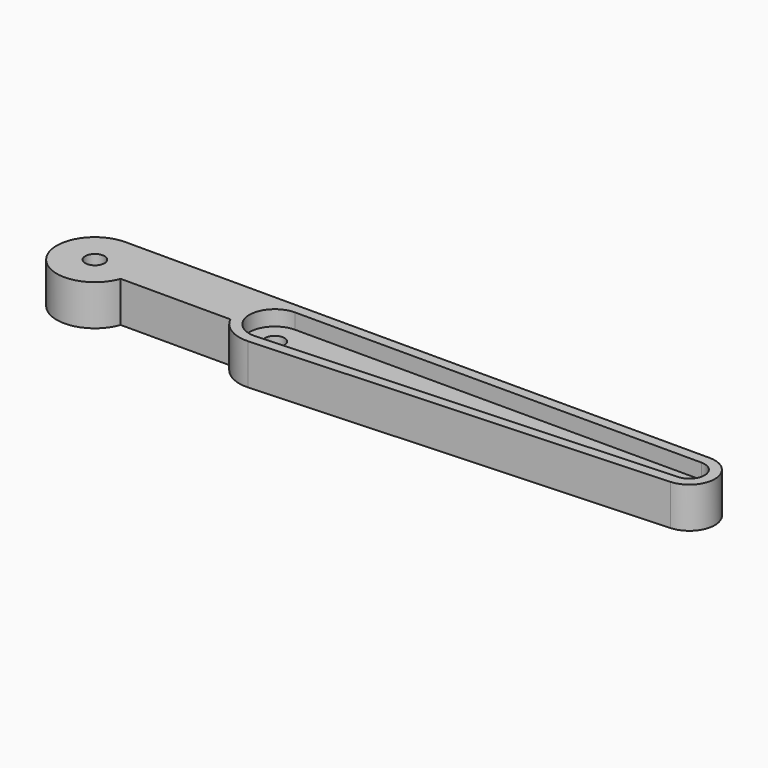
from build123d import *

# Parameters (mm, degrees)
F1_DEPTH = 8
F2_R     = 1.9
F3_DEPTH = 8.001
F5_DEPTH = 3
F6_ANGLE = 90


with BuildPart() as f1:
    # F0 (on Top) → F1 (new body)
    with BuildSketch(Plane.XY):
        with BuildLine():
            ThreePointArc((-0.125, 4.9984372558), (-3.6656130115, 3.4004825025), (-4.99375, -0.2499218628))
            ThreePointArc((-4.99375, -0.2499218628), (0.125, -4.9984372558), (5, 0))
            ThreePointArc((5, 0), (3.4910600109, 3.5794552658), (-0.125, 4.9984372558))
        make_face()
        with BuildLine():
            Line((-8.99125, 79.6251054846), (-4.99375, -0.2499218628))
            ThreePointArc((-4.99375, -0.2499218628), (-3.6656130115, 3.4004825025), (-0.125, 4.9984372558))
            Line((-0.125, 4.9984372558), (-1.825, 72.9771839344))
            ThreePointArc((-1.825, 72.9771839344), (-6.7606755035, 74.8431378764), (-8.99125, 79.6251054846))
        make_face()
        with BuildLine():
            ThreePointArc((-0.125, 4.9984372558), (3.4910600109, 3.5794552658), (5, 0))
            Line((5, 0), (5, 79.9749960925))
            ThreePointArc((5, 79.9749960925), (3.0112373721, 75.0875120772), (-1.825, 72.9771839344))
            Line((-1.825, 72.9771839344), (-0.125, 4.9984372558))
        make_face()
        with BuildLine():
            ThreePointArc((-5, 86.2995514129), (-8.0077721539, 83.567582034), (-8.99125, 79.6251054846))
            ThreePointArc((-8.99125, 79.6251054846), (-6.7606755035, 74.8431378764), (-1.825, 72.9771839344))
            Line((-1.825, 72.9771839344), (-2, 79.9749960925))
            Line((-2, 79.9749960925), (-5, 79.9749960925))
            Line((-5, 79.9749960925), (-5, 86.2995514129))
        make_face()
        with BuildLine():
            Line((-2, 79.9749960925), (5, 79.9749960925))
            ThreePointArc((5, 79.9749960925), (1.7416573868, 85.8910758756), (-5, 86.2995514129))
            Line((-5, 86.2995514129), (-5, 79.9749960925))
            Line((-5, 79.9749960925), (-2, 79.9749960925))
        make_face()
        with BuildLine():
            ThreePointArc((-1.825, 72.9771839344), (3.0112373721, 75.0875120772), (5, 79.9749960925))
            Line((5, 79.9749960925), (-2, 79.9749960925))
            Line((-2, 79.9749960925), (-1.825, 72.9771839344))
        make_face()
        with BuildLine():
            ThreePointArc((-5, 86.2995514129), (1.7416573868, 85.8910758756), (5, 79.9749960925))
            Line((5, 79.9749960925), (5, 114.9749960925))
            ThreePointArc((5, 114.9749960925), (1.8301270189, 108.8512717356), (-5, 107.9039282807))
            Line((-5, 107.9039282807), (-5, 86.2995514129))
        make_face()
        with BuildLine():
            ThreePointArc((-5, 107.9039282807), (1.8301270189, 108.8512717356), (5, 114.9749960925))
            Line((5, 114.9749960925), (-5, 114.9749960925))
            Line((-5, 114.9749960925), (-5, 107.9039282807))
        make_face()
        with BuildLine():
            Line((-5, 114.9749960925), (5, 114.9749960925))
            ThreePointArc((5, 114.9749960925), (-6.8301270189, 121.0987204495), (-5, 107.9039282807))
            Line((-5, 107.9039282807), (-5, 114.9749960925))
        make_face()
    extrude(amount=F1_DEPTH)

    # F2 (on face) → F3 (cut, through all)
    with BuildSketch(Plane.XY.offset(8)):
        with Locations((-2, 79.9749960925)):
            Circle(F2_R)
        with Locations((-2.5, 114.9749960925)):
            Circle(F2_R)
        Circle(F2_R)
    extrude(amount=-F3_DEPTH, mode=Mode.SUBTRACT)

    # F4 (on face) → F5 (cut)
    with BuildSketch(Plane.XY.offset(8)):
        with BuildLine():
            ThreePointArc((-2.99625, -0.1499531177), (0.075, -2.9990623535), (3, 0))
            Line((3, 0), (3, 79.9749960925))
            ThreePointArc((3, 79.9749960925), (0.6726124191, 84.2007673662), (-4.1428571429, 84.4925356071))
            ThreePointArc((-4.1428571429, 84.4925356071), (-6.2912658242, 82.5411289079), (-6.99375, 79.7250742297))
            Line((-6.99375, 79.7250742297), (-2.99625, -0.1499531177))
        make_face()
    extrude(amount=-F5_DEPTH, mode=Mode.SUBTRACT)


with BuildPart() as f1_1:
    # F6: moved
    add(f1.part.rotate(Axis((0, 0, 5), (0, 0, 1)), F6_ANGLE))


solid = f1_1.part
